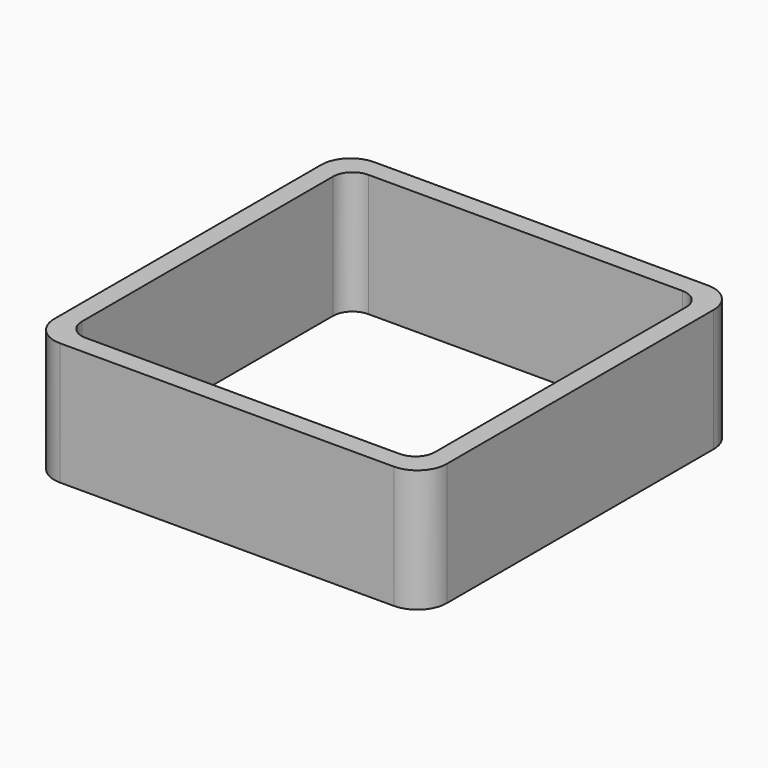
from build123d import *

# Parameters (mm, degrees)
EXTRUDE_DEPTH = 50


with BuildPart() as part:
    # Sketch → Extrude (new body)
    with BuildSketch(Plane.XY):
        with BuildLine():
            Line((-68, 80), (68, 80))
            ThreePointArc((80, 68), (76.485281, 76.485281), (68, 80))
            Line((80, 68), (80, -68))
            ThreePointArc((68, -80), (76.485281, -76.485281), (80, -68))
            Line((68, -80), (-68, -80))
            ThreePointArc((-80, -68), (-76.485281, -76.485281), (-68, -80))
            Line((-80, -68), (-80, 68))
            ThreePointArc((-68, 80), (-76.485281, 76.485281), (-80, 68))
        make_face()
        with BuildLine():
            Line((-64, 72), (64, 72))
            ThreePointArc((72, 64), (69.656854, 69.656854), (64, 72))
            Line((72, 64), (72, -64))
            ThreePointArc((64, -72), (69.656854, -69.656854), (72, -64))
            Line((64, -72), (-64, -72))
            ThreePointArc((-72, -64), (-69.656854, -69.656854), (-64, -72))
            Line((-72, -64), (-72, 64))
            ThreePointArc((-64, 72), (-69.656854, 69.656854), (-72, 64))
        make_face(mode=Mode.SUBTRACT)
    extrude(amount=EXTRUDE_DEPTH)


solid = part.part
